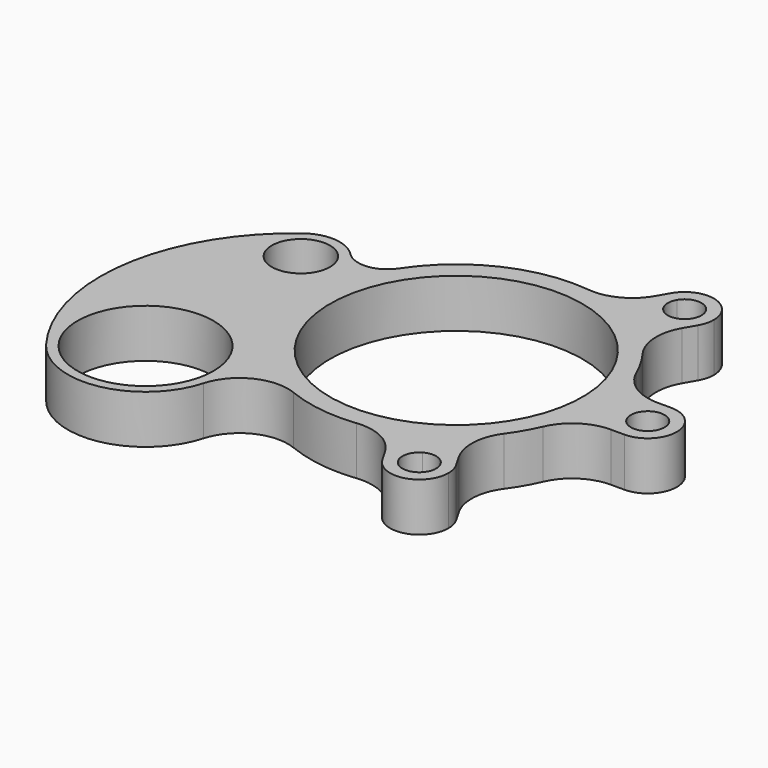
from build123d import *

# Parameters (mm, degrees)
F0_R     = 15
F0_R_2   = 35
F1_DEPTH = 25
F2_R     = 25


with BuildPart() as f1:
    # F0 (on Top) → F1 (new body)
    with BuildSketch(Plane.XY):
        with BuildLine():
            Line((75, 0), (65, 0))
            ThreePointArc((65, 0), (56.291651246, -32.5), (32.5, -56.291651246))
            Line((32.5, -56.291651246), (37.5, -64.9519052838))
            ThreePointArc((37.5, -64.9519052838), (43.838354318, -60.8539126983), (49.7327271985, -56.1396103068))
            ThreePointArc((49.7327271985, -56.1396103068), (64.9519052838, -37.5), (73.4846922835, -15))
            ThreePointArc((73.4846922835, -15), (74.6202114754, -7.5381721504), (75, 0))
        make_face()
        with BuildLine():
            ThreePointArc((32.5, 56.291651246), (56.291651246, 32.5), (65, 0))
            Line((65, 0), (75, 0))
            ThreePointArc((75, 0), (74.6202114754, 7.5381721504), (73.4846922835, 15))
            ThreePointArc((73.4846922835, 15), (64.9519052838, 37.5), (49.7327271985, 56.1396103068))
            ThreePointArc((49.7327271985, 56.1396103068), (43.838354318, 60.8539126983), (37.5, 64.9519052838))
            Line((37.5, 64.9519052838), (32.5, 56.291651246))
        make_face()
        with BuildLine():
            ThreePointArc((-65, 0), (-32.5, 56.291651246), (32.5, 56.291651246))
            Line((32.5, 56.291651246), (37.5, 64.9519052838))
            ThreePointArc((37.5, 64.9519052838), (30.7818571574, 68.3920848486), (23.751965085, 71.1396103068))
            ThreePointArc((23.751965085, 71.1396103068), (-24.4768815504, 70.8934571704), (-62.5839078402, 41.3310353058))
            ThreePointArc((-62.5839078402, 41.3310353058), (-71.8289394604, 21.5778464169), (-75, 0))
            Line((-75, 0), (-65, 0))
        make_face()
        with BuildLine():
            Line((37.5, -64.9519052838), (32.5, -56.291651246))
            ThreePointArc((32.5, -56.291651246), (-32.5, -56.291651246), (-65, 0))
            Line((-65, 0), (-75, 0))
            ThreePointArc((-75, 0), (-62.1779969221, -41.9392024096), (-28.0960880332, -69.5385492891))
            ThreePointArc((-28.0960880332, -69.5385492891), (-2.3148866372, -74.96426682), (23.751965085, -71.1396103068))
            ThreePointArc((23.751965085, -71.1396103068), (30.7818571574, -68.3920848486), (37.5, -64.9519052838))
        make_face()
        with BuildLine():
            Line((83.62, 0), (75, 0))
            ThreePointArc((75, 0), (74.6202114754, -7.5381721504), (73.4846922835, -15))
            Line((73.4846922835, -15), (98.62, -15))
            ThreePointArc((98.62, -15), (88.0133982822, -10.6066017178), (83.62, 0))
        make_face()
        with BuildLine():
            ThreePointArc((73.4846922835, 15), (74.6202114754, 7.5381721504), (75, 0))
            Line((75, 0), (83.62, 0))
            ThreePointArc((83.62, 0), (88.0133982822, 10.6066017178), (98.62, 15))
            Line((98.62, 15), (73.4846922835, 15))
        make_face()
        with BuildLine():
            Line((41.81, 72.4170442645), (37.5, 64.9519052838))
            ThreePointArc((37.5, 64.9519052838), (43.838354318, 60.8539126983), (49.7327271985, 56.1396103068))
            Line((49.7327271985, 56.1396103068), (62.3003810568, 77.9074253212))
            ThreePointArc((62.3003810568, 77.9074253212), (53.1922856765, 70.9185379269), (41.81, 72.4170442645))
        make_face()
        with BuildLine():
            ThreePointArc((23.751965085, 71.1396103068), (30.7818571574, 68.3920848486), (37.5, 64.9519052838))
            Line((37.5, 64.9519052838), (41.81, 72.4170442645))
            ThreePointArc((41.81, 72.4170442645), (34.8211126057, 81.5251396447), (36.3196189432, 92.9074253212))
            Line((36.3196189432, 92.9074253212), (23.751965085, 71.1396103068))
        make_face()
        with BuildLine():
            Line((41.81, -72.4170442645), (37.5, -64.9519052838))
            ThreePointArc((37.5, -64.9519052838), (30.7818571574, -68.3920848486), (23.751965085, -71.1396103068))
            Line((23.751965085, -71.1396103068), (36.3196189432, -92.9074253212))
            ThreePointArc((36.3196189432, -92.9074253212), (34.8211126057, -81.5251396447), (41.81, -72.4170442645))
        make_face()
        with BuildLine():
            ThreePointArc((49.7327271985, -56.1396103068), (43.838354318, -60.8539126983), (37.5, -64.9519052838))
            Line((37.5, -64.9519052838), (41.81, -72.4170442645))
            ThreePointArc((41.81, -72.4170442645), (53.1922856765, -70.9185379269), (62.3003810568, -77.9074253212))
            Line((62.3003810568, -77.9074253212), (49.7327271985, -56.1396103068))
        make_face()
        with BuildLine():
            ThreePointArc((98.62, 15), (88.0133982822, 10.6066017178), (83.62, 0))
            ThreePointArc((83.62, 0), (88.0133982822, -10.6066017178), (98.62, -15))
            ThreePointArc((98.62, -15), (109.2266017178, -10.6066017178), (113.62, 0))
            ThreePointArc((113.62, 0), (109.2266017178, 10.6066017178), (98.62, 15))
        make_face()
        with BuildLine():
            ThreePointArc((107.28, 0), (98.62, -8.66), (89.96, 0))
            ThreePointArc((89.96, 0), (98.62, 8.66), (107.28, 0))
        make_face(mode=Mode.SUBTRACT)
        with BuildLine():
            ThreePointArc((-28.0960880332, -69.5385492891), (-62.1779969221, -41.9392024096), (-75, 0))
            ThreePointArc((-75, 0), (-71.8289394604, 21.5778464169), (-62.5839078402, 41.3310353058))
            ThreePointArc((-62.5839078402, 41.3310353058), (-73.6357513606, 34.6689485422), (-85.771822519, 39.0555670668))
            ThreePointArc((-85.771822519, 39.0555670668), (-81.4991412413, 32.5972511601), (-80, 25))
            ThreePointArc((-80, 25), (-108.94427191, 7.11145618), (-112, 41))
            ThreePointArc((-112, 41), (-150.9949493661, -24.8578643763), (-132, -99))
            ThreePointArc((-132, -99), (-112.6491106407, -37.052668078), (-60, -75))
            ThreePointArc((-60, -75), (-60.3804944248, -80.5040692202), (-61.514738899, -85.9034250577))
            ThreePointArc((-61.514738899, -85.9034250577), (-48.4562712497, -70.2655843121), (-28.0960880332, -69.5385492891))
        make_face()
        with BuildLine():
            ThreePointArc((36.3196189432, 92.9074253212), (34.8211126057, 81.5251396447), (41.81, 72.4170442645))
            Line((41.81, 72.4170442645), (44.98, 77.9076453244))
            ThreePointArc((44.98, 77.9076453244), (40.9450823443, 83.1660523906), (41.8102200032, 89.7374253212))
            Line((41.8102200032, 89.7374253212), (36.3196189432, 92.9074253212))
        make_face()
        with BuildLine():
            Line((44.98, 77.9076453244), (41.81, 72.4170442645))
            ThreePointArc((41.81, 72.4170442645), (53.1922856765, 70.9185379269), (62.3003810568, 77.9074253212))
            Line((62.3003810568, 77.9074253212), (56.8097799968, 81.0774253212))
            ThreePointArc((56.8097799968, 81.0774253212), (51.5513729306, 77.0425076656), (44.98, 77.9076453244))
        make_face()
        with BuildLine():
            ThreePointArc((62.3003810568, -77.9074253212), (53.1922856765, -70.9185379269), (41.81, -72.4170442645))
            Line((41.81, -72.4170442645), (44.98, -77.9076453244))
            ThreePointArc((44.98, -77.9076453244), (51.5513729306, -77.0425076656), (56.8097799968, -81.0774253212))
            Line((56.8097799968, -81.0774253212), (62.3003810568, -77.9074253212))
        make_face()
        with BuildLine():
            Line((44.98, -77.9076453244), (41.81, -72.4170442645))
            ThreePointArc((41.81, -72.4170442645), (34.8211126057, -81.5251396447), (36.3196189432, -92.9074253212))
            Line((36.3196189432, -92.9074253212), (41.8102200032, -89.7374253212))
            ThreePointArc((41.8102200032, -89.7374253212), (40.9450823443, -83.1660523906), (44.98, -77.9076453244))
        make_face()
        with BuildLine():
            Line((56.8097799968, 81.0774253212), (62.3003810568, 77.9074253212))
            ThreePointArc((62.3003810568, 77.9074253212), (63.7988873943, 81.5251396447), (64.31, 85.4074253212))
            ThreePointArc((64.31, 85.4074253212), (53.1922856765, 99.8963127156), (36.3196189432, 92.9074253212))
            Line((36.3196189432, 92.9074253212), (41.8102200032, 89.7374253212))
            ThreePointArc((41.8102200032, 89.7374253212), (51.5513729306, 93.7723429769), (57.97, 85.4074253212))
            ThreePointArc((57.97, 85.4074253212), (57.6749176557, 83.1660523906), (56.8097799968, 81.0774253212))
        make_face()
        with BuildLine():
            Line((41.8102200032, -89.7374253212), (36.3196189432, -92.9074253212))
            ThreePointArc((36.3196189432, -92.9074253212), (53.1922856765, -99.8963127156), (64.31, -85.4074253212))
            ThreePointArc((64.31, -85.4074253212), (63.7988873943, -81.5251396447), (62.3003810568, -77.9074253212))
            Line((62.3003810568, -77.9074253212), (56.8097799968, -81.0774253212))
            ThreePointArc((56.8097799968, -81.0774253212), (57.6749176557, -83.1660523906), (57.97, -85.4074253212))
            ThreePointArc((57.97, -85.4074253212), (51.5513729306, -93.7723429769), (41.8102200032, -89.7374253212))
        make_face()
        with BuildLine():
            ThreePointArc((-80, 25), (-81.4991412413, 32.5972511601), (-85.771822519, 39.0555670668))
            ThreePointArc((-85.771822519, 39.0555670668), (-98.5213524492, 44.9452651379), (-112, 41))
            ThreePointArc((-112, 41), (-108.94427191, 7.11145618), (-80, 25))
        make_face()
        with Locations((-100, 25)):
            Circle(F0_R, mode=Mode.SUBTRACT)
        with BuildLine():
            ThreePointArc((-132, -99), (-92.6928308018, -114.3269027297), (-61.514738899, -85.9034250577))
            ThreePointArc((-61.514738899, -85.9034250577), (-60.3804944248, -80.5040692202), (-60, -75))
            ThreePointArc((-60, -75), (-112.6491106407, -37.052668078), (-132, -99))
        make_face()
        with Locations((-100, -75)):
            Circle(F0_R_2, mode=Mode.SUBTRACT)
    extrude(amount=F1_DEPTH)

    # F2
    f2_edges = [f1.edges().sort_by_distance(p)[0] for p in [
        (49.732727, -56.13961, 12.5),
        (73.484692, -15, 12.5),
        (23.751965, -71.13961, 12.5),
        (73.484692, 15, 12.5),
        (49.732727, 56.13961, 12.5),
        (23.751965, 71.13961, 12.5),
    ]]
    fillet(f2_edges, radius=F2_R)


solid = f1.part
